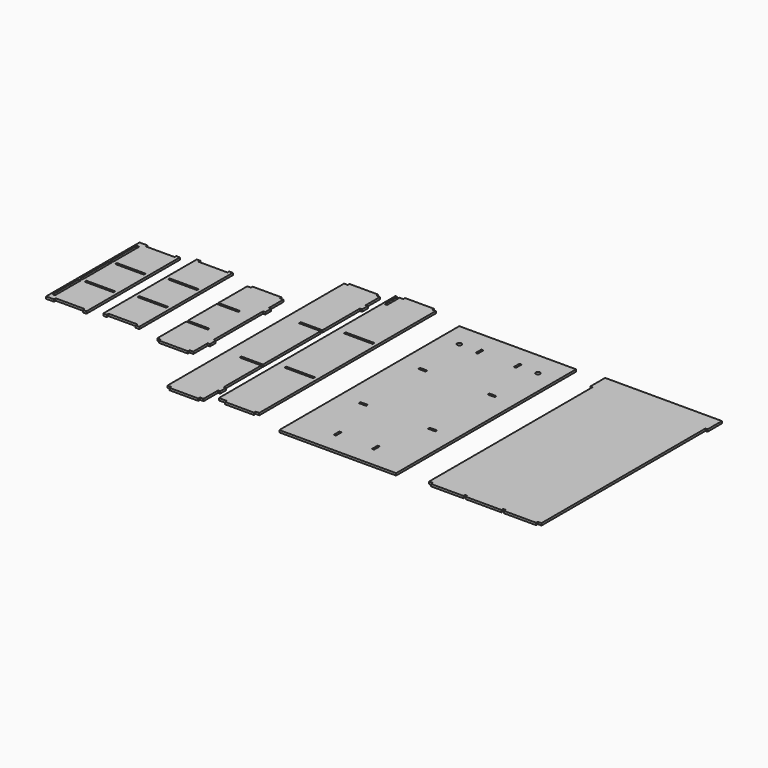
from build123d import *

# Parameters (mm, degrees)
F1_DEPTH  = 3
F3_DEPTH  = 3
F4_W      = 40
F4_H      = 3
F5_DEPTH  = 3
F6_W      = 3.3
F6_H      = 45
F6_W_2    = 40
F6_H_2    = 3
F6_H_3    = 50
F7_DEPTH  = 3
F8_W      = 40
F8_H      = 3
F9_DEPTH  = 3
F10_W     = 162
F10_H     = 312
F10_W_2   = 3
F10_H_2   = 10
F10_W_3   = 10
F10_H_3   = 3
F10_R     = 3
F11_DEPTH = 3
F13_DEPTH = 3


with BuildPart() as f1:
    # F0 (on Top) → F1 (new body)
    with BuildSketch(Plane.XY):
        Polygon((-13.584544, 94.258389), (-53.584544, 94.258389), (-53.584544, 91.258389), (-58.584544, 91.258389), (-58.584544, 41.258389), (-28.584544, 41.258389), (-28.584544, 38.258389), (-58.584544, 38.258389), (-58.584544, -11.741611), (-28.584544, -11.741611), (-28.584544, -14.741611), (-58.584544, -14.741611), (-58.584544, -64.741611), (-53.584544, -64.741611), (-53.584544, -67.741611), (-13.584544, -67.741611), (-13.584544, -64.741611), (-8.584544, -64.741611), (-8.584544, -39.741611), (-5.584544, -39.741611), (-5.584544, -29.741611), (-8.584544, -29.741611), (-8.584544, 56.258389), (-5.584544, 56.258389), (-5.584544, 66.258389), (-8.584544, 66.258389), (-8.584544, 91.258389), (-13.584544, 91.258389), align=None)
    extrude(amount=F1_DEPTH)


with BuildPart() as f3:
    # F2 (on Top) → F3 (new body)
    with BuildSketch(Plane.XY):
        Polygon((64.28074, 164.704534), (24.28074, 164.704534), (24.28074, 161.704534), (19.28074, 161.704534), (19.28074, -144.295466), (24.28074, -144.295466), (24.28074, -147.295466), (64.28074, -147.295466), (64.28074, -144.295466), (69.28074, -144.295466), (69.28074, -119.295466), (72.28074, -119.295466), (72.28074, -109.295466), (69.28074, -109.295466), (69.28074, -44.295466), (39.28074, -44.295466), (39.28074, -41.295466), (69.28074, -41.295466), (69.28074, 58.704534), (39.28074, 58.704534), (39.28074, 61.704534), (69.28074, 61.704534), (69.28074, 126.704534), (72.28074, 126.704534), (72.28074, 136.704534), (69.28074, 136.704534), (69.28074, 161.704534), (64.28074, 161.704534), align=None)
    extrude(amount=F3_DEPTH)


with BuildPart() as f5:
    # F4 (on Top) → F5 (new body)
    with BuildSketch(Plane.XY):
        Polygon((-135.627807, 106.242693), (-140.627807, 106.242693), (-140.627807, -55.757307), (-135.627807, -55.757307), (-135.627807, -52.757307), (-95.627807, -52.757307), (-95.627807, -55.757307), (-90.627807, -55.757307), (-90.627807, 106.242693), (-95.627807, 106.242693), (-95.627807, 103.242693), (-135.627807, 103.242693), align=None)
        with Locations((-115.627807, -1.257307)):
            Rectangle(F4_W, F4_H, mode=Mode.SUBTRACT)
        with Locations((-115.627807, 51.742693)):
            Rectangle(F4_W, F4_H, mode=Mode.SUBTRACT)
    extrude(amount=F5_DEPTH)


with BuildPart() as f7:
    # F6 (on Top) → F7 (new body)
    with BuildSketch(Plane.XY):
        Polygon((-202.935444, 98.677179), (-213.935444, 98.677179), (-213.935444, -63.322821), (-202.935444, -63.322821), (-202.935444, -60.322821), (-162.935444, -60.322821), (-162.935444, -63.322821), (-157.935444, -63.322821), (-157.935444, 98.677179), (-162.935444, 98.677179), (-162.935444, 95.677179), (-202.935444, 95.677179), align=None)
        with Locations((-209.585444, -32.822821)):
            Rectangle(F6_W, F6_H, mode=Mode.SUBTRACT)
        with Locations((-182.935444, -8.822821)):
            Rectangle(F6_W_2, F6_H_2, mode=Mode.SUBTRACT)
        with Locations((-209.585444, 17.677179)):
            Rectangle(F6_W, F6_H_3, mode=Mode.SUBTRACT)
        with Locations((-209.585444, 68.177179)):
            Rectangle(F6_W, F6_H, mode=Mode.SUBTRACT)
        with Locations((-182.935444, 44.177179)):
            Rectangle(F6_W_2, F6_H_2, mode=Mode.SUBTRACT)
    extrude(amount=F7_DEPTH)


with BuildPart() as f9:
    # F8 (on Top) → F9 (new body)
    with BuildSketch(Plane.XY):
        Polygon((132.040561, 176.510739), (92.040561, 176.510739), (92.040561, 173.510739), (87.040561, 173.510739), (87.040561, 151.510739), (83.940561, 151.510739), (83.940561, 173.510739), (81.040561, 173.510739), (81.040561, -132.489261), (92.040561, -132.489261), (92.040561, -135.489261), (132.040561, -135.489261), (132.040561, -132.489261), (137.040561, -132.489261), (137.040561, 173.510739), (132.040561, 173.510739), align=None)
        with Locations((112.040561, -30.989261)):
            Rectangle(F8_W, F8_H, mode=Mode.SUBTRACT)
        with Locations((112.040561, 72.010739)):
            Rectangle(F8_W, F8_H, mode=Mode.SUBTRACT)
    extrude(amount=F9_DEPTH)


with BuildPart() as f11:
    # F10 (on Top) → F11 (new body)
    with BuildSketch(Plane.XY):
        with Locations((260.083628, 5.747356)):
            Rectangle(F10_W, F10_H)
        with Locations((233.583628, -117.252644)):
            Rectangle(F10_W_2, F10_H_2, mode=Mode.SUBTRACT)
        with Locations((212.083628, -45.752644)):
            Rectangle(F10_W_3, F10_H_3, mode=Mode.SUBTRACT)
        with Locations((286.583628, -117.252644)):
            Rectangle(F10_W_2, F10_H_2, mode=Mode.SUBTRACT)
        with Locations((308.083628, -45.752644)):
            Rectangle(F10_W_3, F10_H_3, mode=Mode.SUBTRACT)
        with Locations((212.083628, 57.247356)):
            Rectangle(F10_W_3, F10_H_3, mode=Mode.SUBTRACT)
        with Locations((205.583628, 128.747356)):
            Circle(F10_R, mode=Mode.SUBTRACT)
        with Locations((233.583628, 128.747356)):
            Rectangle(F10_W_2, F10_H_2, mode=Mode.SUBTRACT)
        with Locations((308.083628, 57.247356)):
            Rectangle(F10_W_3, F10_H_3, mode=Mode.SUBTRACT)
        with Locations((286.583628, 128.747356)):
            Rectangle(F10_W_2, F10_H_2, mode=Mode.SUBTRACT)
        with Locations((314.583628, 128.747356)):
            Circle(F10_R, mode=Mode.SUBTRACT)
    extrude(amount=F11_DEPTH)


with BuildPart() as f13:
    # F12 (on Top) → F13 (new body)
    with BuildSketch(Plane.XY):
        Polygon((540.216496, 165.651241), (378.216496, 165.651241), (378.216496, 140.651241), (381.216496, 140.651241), (381.216496, -143.348759), (386.316496, -143.348759), (386.316496, -146.348759), (431.116496, -146.348759), (431.116496, -143.348759), (434.316496, -143.348759), (434.316496, -146.348759), (484.116496, -146.348759), (484.116496, -143.348759), (487.316496, -143.348759), (487.316496, -146.348759), (532.116496, -146.348759), (532.116496, -143.348759), (537.216496, -143.348759), (537.216496, 140.651241), (540.216496, 140.651241), align=None)
    extrude(amount=F13_DEPTH)


solid = Compound([f1.part, f3.part, f5.part, f7.part, f9.part, f11.part, f13.part])
